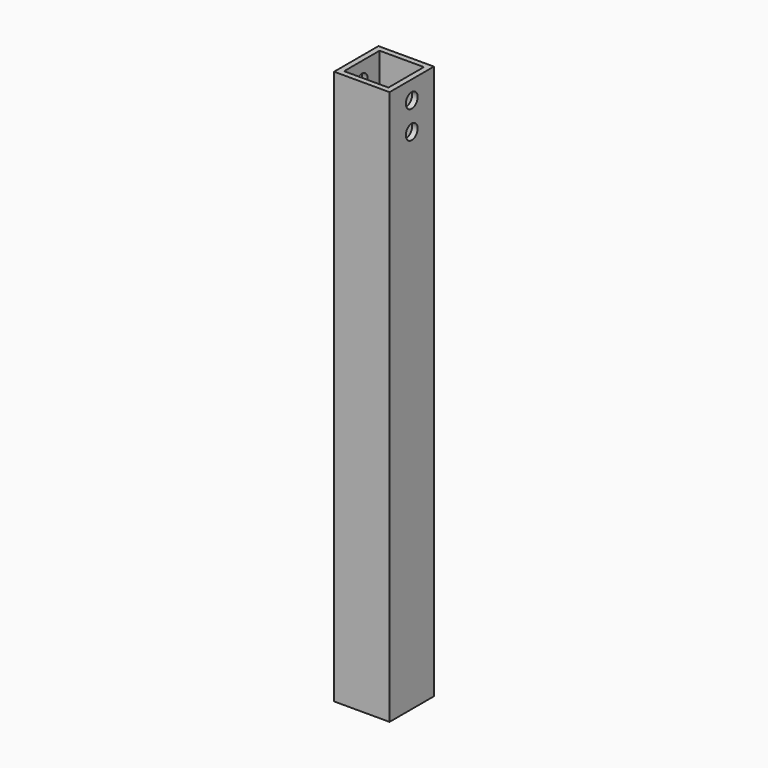
from build123d import *

# Parameters (mm, degrees)
F0_W     = 30
F0_H     = 30
F0_W_2   = 24
F0_H_2   = 24
F1_DEPTH = 150
F3_D     = 8


with BuildPart() as f1:
    # F0 (on Top) → F1 (new body, symmetric)
    with BuildSketch(Plane.XY):
        Rectangle(F0_W, F0_H)
        Rectangle(F0_W_2, F0_H_2, mode=Mode.SUBTRACT)
    extrude(amount=F1_DEPTH, both=True)

    # F3 (through all)
    with Locations(Plane.YZ.offset(15)):
        with Locations((0, 140), (0, 125)):
            Hole(F3_D / 2)


solid = f1.part
